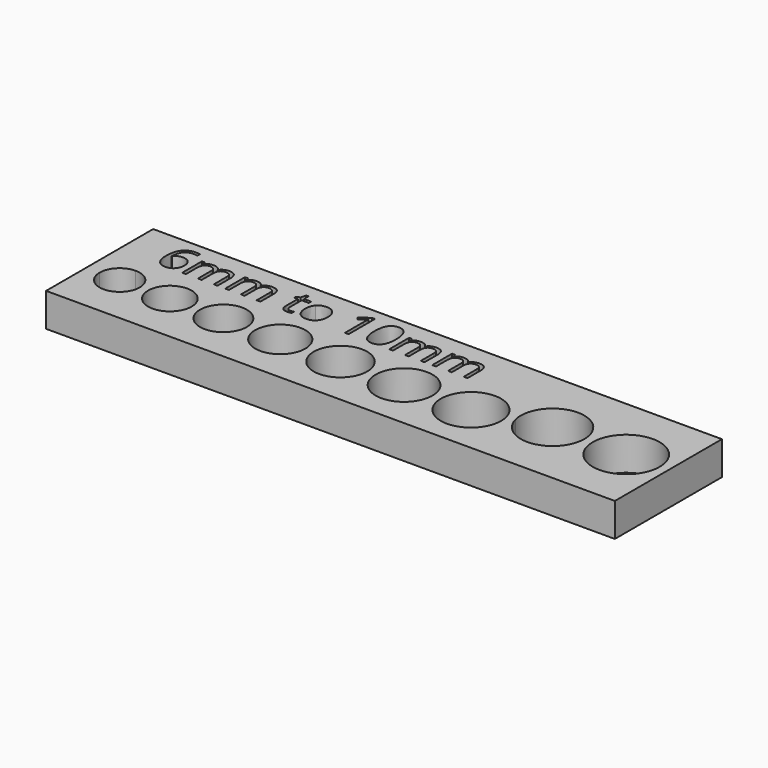
from build123d import *

# Parameters (mm, degrees)
F1_DEPTH = 5


with BuildPart() as f1:
    # F0 (on Top) → F1 (new body)
    with BuildSketch(Plane.XY):
        with BuildLine():
            Line((0, 7.5), (0, 0))
            Line((0, 0), (5, 0))
            Line((5, 0), (5, 4.5))
            ThreePointArc((5, 4.5), (2.8786796564, 5.3786796564), (2, 7.5))
            Line((2, 7.5), (0, 7.5))
        make_face()
        with BuildLine():
            Line((5, 4.5), (5, 0))
            Line((5, 0), (85, 0))
            Line((85, 0), (85, 20))
            Line((85, 20), (0, 20))
            Line((0, 20), (0, 7.5))
            Line((0, 7.5), (2, 7.5))
            ThreePointArc((2, 7.5), (2.8786796564, 9.6213203436), (5, 10.5))
            ThreePointArc((5, 10.5), (7.1213203436, 9.6213203436), (8, 7.5))
            ThreePointArc((8, 7.5), (7.1213203436, 5.3786796564), (5, 4.5))
        make_face()
        with BuildLine():
            ThreePointArc((15.75, 7.5), (12.5, 4.25), (9.25, 7.5))
            ThreePointArc((9.25, 7.5), (12.5, 10.75), (15.75, 7.5))
        make_face(mode=Mode.SUBTRACT)
        with BuildLine():
            ThreePointArc((24, 7.5), (20.5, 4), (17, 7.5))
            ThreePointArc((17, 7.5), (20.5, 11), (24, 7.5))
        make_face(mode=Mode.SUBTRACT)
        with BuildLine():
            ThreePointArc((32.75, 7.5), (29, 3.75), (25.25, 7.5))
            ThreePointArc((25.25, 7.5), (29, 11.25), (32.75, 7.5))
        make_face(mode=Mode.SUBTRACT)
        with BuildLine():
            ThreePointArc((42, 7.5), (38, 3.5), (34, 7.5))
            ThreePointArc((34, 7.5), (38, 11.5), (42, 7.5))
        make_face(mode=Mode.SUBTRACT)
        with BuildLine():
            ThreePointArc((51.75, 7.5), (47.5, 3.25), (43.25, 7.5))
            ThreePointArc((43.25, 7.5), (47.5, 11.75), (51.75, 7.5))
        make_face(mode=Mode.SUBTRACT)
        with BuildLine():
            ThreePointArc((62, 7.5), (57.5, 3), (53, 7.5))
            ThreePointArc((53, 7.5), (56.9603921309, 11.9675298933), (61.8705881545, 8.5714285714))
            ThreePointArc((61.8705881545, 8.5714285714), (61.9675298933, 8.0396078691), (62, 7.5))
        make_face(mode=Mode.SUBTRACT)
        with BuildLine():
            add(Edge.make_bspline(
                [(5.8433741256, 14.0072115662), (5.3949775175, 14.5824110658), (5.3949775175, 15.6076259338)],
                knots=[0, 0, 0, 1, 1, 1], degree=2))
            add(Edge.make_bspline(
                [(5.3949775175, 15.6076259338), (5.3949775175, 17.0612726992), (5.9599248685, 17.7810814538)],
                knots=[0, 0, 0, 1, 1, 1], degree=2))
            add(Edge.make_bspline(
                [(5.9599248685, 17.7810814538), (6.5248722194, 18.5008902084), (7.6310251032, 18.5008902084)],
                knots=[0, 0, 0, 1, 1, 1], degree=2))
            add(Edge.make_bspline(
                [(7.6310251032, 18.5008902084), (8.0119733646, 18.5008902084), (8.2310455943, 18.4372189693)],
                knots=[0, 0, 0, 1, 1, 1], degree=2))
            Line((8.2310455943, 18.4372189693), (8.2310455943, 17.9548283946))
            add(Edge.make_bspline(
                [(8.2310455943, 17.9548283946), (7.9709647699, 18.0390039311), (7.6375001445, 18.0390039311)],
                knots=[0, 0, 0, 1, 1, 1], degree=2))
            add(Edge.make_bspline(
                [(7.6375001445, 18.0390039311), (6.8443075887, 18.0390039311), (6.42612784, 17.5452820342)],
                knots=[0, 0, 0, 1, 1, 1], degree=2))
            add(Edge.make_bspline(
                [(6.42612784, 17.5452820342), (6.0079480912, 17.0515601372), (5.96801867, 15.9918117159)],
                knots=[0, 0, 0, 1, 1, 1], degree=2))
            Line((5.96801867, 15.9918117159), (6.0079480912, 15.9918117159))
            add(Edge.make_bspline(
                [(6.0079480912, 15.9918117159), (6.3791837908, 16.5724070832), (7.1820889084, 16.5724070832)],
                knots=[0, 0, 0, 1, 1, 1], degree=2))
            add(Edge.make_bspline(
                [(7.1820889084, 16.5724070832), (7.8468598122, 16.5724070832), (8.229426834, 16.1709545244)],
                knots=[0, 0, 0, 1, 1, 1], degree=2))
            add(Edge.make_bspline(
                [(8.229426834, 16.1709545244), (8.6119938558, 15.7695019656), (8.6119938558, 15.0820684173)],
                knots=[0, 0, 0, 1, 1, 1], degree=2))
            add(Edge.make_bspline(
                [(8.6119938558, 15.0820684173), (8.6119938558, 14.3126176795), (8.1921953467, 13.8723148731)],
                knots=[0, 0, 0, 1, 1, 1], degree=2))
            add(Edge.make_bspline(
                [(8.1921953467, 13.8723148731), (7.7723968376, 13.4320120667), (7.0569047771, 13.4320120667)],
                knots=[0, 0, 0, 1, 1, 1], degree=2))
            add(Edge.make_bspline(
                [(7.0569047771, 13.4320120667), (6.2917707336, 13.4320120667), (5.8433741256, 14.0072115662)],
                knots=[0, 0, 0, 1, 1, 1], degree=2))
        make_face(mode=Mode.SUBTRACT)
        with BuildLine():
            Line((14.8129250465, 13.5), (14.2539131501, 13.5))
            Line((14.2539131501, 13.5), (14.2539131501, 15.9043986587))
            add(Edge.make_bspline(
                [(14.2539131501, 15.9043986587), (14.2539131501, 16.3468598122), (14.0650577797, 16.5675508022)],
                knots=[0, 0, 0, 1, 1, 1], degree=2))
            add(Edge.make_bspline(
                [(14.0650577797, 16.5675508022), (13.8762024093, 16.7882417922), (13.4779873711, 16.7882417922)],
                knots=[0, 0, 0, 1, 1, 1], degree=2))
            add(Edge.make_bspline(
                [(13.4779873711, 16.7882417922), (12.9556673752, 16.7882417922), (12.7058386995, 16.4882315467)],
                knots=[0, 0, 0, 1, 1, 1], degree=2))
            add(Edge.make_bspline(
                [(12.7058386995, 16.4882315467), (12.4560100238, 16.1882213011), (12.4560100238, 15.564458992)],
                knots=[0, 0, 0, 1, 1, 1], degree=2))
            Line((12.4560100238, 15.564458992), (12.4560100238, 13.5))
            Line((12.4560100238, 13.5), (11.8959189538, 13.5))
            Line((11.8959189538, 13.5), (11.8959189538, 15.9043986587))
            add(Edge.make_bspline(
                [(11.8959189538, 15.9043986587), (11.8959189538, 16.3468598122), (11.7070635834, 16.5675508022)],
                knots=[0, 0, 0, 1, 1, 1], degree=2))
            add(Edge.make_bspline(
                [(11.7070635834, 16.5675508022), (11.518208213, 16.7882417922), (11.1167556542, 16.7882417922)],
                knots=[0, 0, 0, 1, 1, 1], degree=2))
            add(Edge.make_bspline(
                [(11.1167556542, 16.7882417922), (10.5911981377, 16.7882417922), (10.3467653297, 16.473123117)],
                knots=[0, 0, 0, 1, 1, 1], degree=2))
            add(Edge.make_bspline(
                [(10.3467653297, 16.473123117), (10.1023325217, 16.1580044418), (10.1023325217, 15.4392748607)],
                knots=[0, 0, 0, 1, 1, 1], degree=2))
            Line((10.1023325217, 15.4392748607), (10.1023325217, 13.5))
            Line((10.1023325217, 13.5), (9.5422414517, 13.5))
            Line((9.5422414517, 13.5), (9.5422414517, 17.1961693923))
            Line((9.5422414517, 17.1961693923), (9.9976526878, 17.1961693923))
            Line((9.9976526878, 17.1961693923), (10.0883032656, 16.6900369996))
            Line((10.0883032656, 16.6900369996), (10.1152826042, 16.6900369996))
            add(Edge.make_bspline(
                [(10.1152826042, 16.6900369996), (10.2739211154, 16.9598303859), (10.5626000387, 17.1119938558)],
                knots=[0, 0, 0, 1, 1, 1], degree=2))
            add(Edge.make_bspline(
                [(10.5626000387, 17.1119938558), (10.8512789621, 17.2641573257), (11.2084854055, 17.2641573257)],
                knots=[0, 0, 0, 1, 1, 1], degree=2))
            add(Edge.make_bspline(
                [(11.2084854055, 17.2641573257), (12.0750617623, 17.2641573257), (12.341617628, 16.6360783223)],
                knots=[0, 0, 0, 1, 1, 1], degree=2))
            Line((12.341617628, 16.6360783223), (12.3685969666, 16.6360783223))
            add(Edge.make_bspline(
                [(12.3685969666, 16.6360783223), (12.533710519, 16.926376006), (12.8472104339, 17.0952666658)],
                knots=[0, 0, 0, 1, 1, 1], degree=2))
            add(Edge.make_bspline(
                [(12.8472104339, 17.0952666658), (13.1607103488, 17.2641573257), (13.5621629076, 17.2641573257)],
                knots=[0, 0, 0, 1, 1, 1], degree=2))
            add(Edge.make_bspline(
                [(13.5621629076, 17.2641573257), (14.1891627374, 17.2641573257), (14.5010438919, 16.9420240224)],
                knots=[0, 0, 0, 1, 1, 1], degree=2))
            add(Edge.make_bspline(
                [(14.5010438919, 16.9420240224), (14.8129250465, 16.6198907192), (14.8129250465, 15.9108737)],
                knots=[0, 0, 0, 1, 1, 1], degree=2))
            Line((14.8129250465, 15.9108737), (14.8129250465, 13.5))
        make_face(mode=Mode.SUBTRACT)
        with BuildLine():
            Line((21.237245161, 13.5), (20.6782332646, 13.5))
            Line((20.6782332646, 13.5), (20.6782332646, 15.9043986587))
            add(Edge.make_bspline(
                [(20.6782332646, 15.9043986587), (20.6782332646, 16.3468598122), (20.4893778942, 16.5675508022)],
                knots=[0, 0, 0, 1, 1, 1], degree=2))
            add(Edge.make_bspline(
                [(20.4893778942, 16.5675508022), (20.3005225238, 16.7882417922), (19.9023074856, 16.7882417922)],
                knots=[0, 0, 0, 1, 1, 1], degree=2))
            add(Edge.make_bspline(
                [(19.9023074856, 16.7882417922), (19.3799874898, 16.7882417922), (19.130158814, 16.4882315467)],
                knots=[0, 0, 0, 1, 1, 1], degree=2))
            add(Edge.make_bspline(
                [(19.130158814, 16.4882315467), (18.8803301383, 16.1882213011), (18.8803301383, 15.564458992)],
                knots=[0, 0, 0, 1, 1, 1], degree=2))
            Line((18.8803301383, 15.564458992), (18.8803301383, 13.5))
            Line((18.8803301383, 13.5), (18.3202390684, 13.5))
            Line((18.3202390684, 13.5), (18.3202390684, 15.9043986587))
            add(Edge.make_bspline(
                [(18.3202390684, 15.9043986587), (18.3202390684, 16.3468598122), (18.131383698, 16.5675508022)],
                knots=[0, 0, 0, 1, 1, 1], degree=2))
            add(Edge.make_bspline(
                [(18.131383698, 16.5675508022), (17.9425283276, 16.7882417922), (17.5410757687, 16.7882417922)],
                knots=[0, 0, 0, 1, 1, 1], degree=2))
            add(Edge.make_bspline(
                [(17.5410757687, 16.7882417922), (17.0155182522, 16.7882417922), (16.7710854442, 16.473123117)],
                knots=[0, 0, 0, 1, 1, 1], degree=2))
            add(Edge.make_bspline(
                [(16.7710854442, 16.473123117), (16.5266526363, 16.1580044418), (16.5266526363, 15.4392748607)],
                knots=[0, 0, 0, 1, 1, 1], degree=2))
            Line((16.5266526363, 15.4392748607), (16.5266526363, 13.5))
            Line((16.5266526363, 13.5), (15.9665615663, 13.5))
            Line((15.9665615663, 13.5), (15.9665615663, 17.1961693923))
            Line((15.9665615663, 17.1961693923), (16.4219728024, 17.1961693923))
            Line((16.4219728024, 17.1961693923), (16.5126233802, 16.6900369996))
            Line((16.5126233802, 16.6900369996), (16.5396027188, 16.6900369996))
            add(Edge.make_bspline(
                [(16.5396027188, 16.6900369996), (16.6982412299, 16.9598303859), (16.9869201533, 17.1119938558)],
                knots=[0, 0, 0, 1, 1, 1], degree=2))
            add(Edge.make_bspline(
                [(16.9869201533, 17.1119938558), (17.2755990766, 17.2641573257), (17.6328055201, 17.2641573257)],
                knots=[0, 0, 0, 1, 1, 1], degree=2))
            add(Edge.make_bspline(
                [(17.6328055201, 17.2641573257), (18.4993818769, 17.2641573257), (18.7659377425, 16.6360783223)],
                knots=[0, 0, 0, 1, 1, 1], degree=2))
            Line((18.7659377425, 16.6360783223), (18.7929170812, 16.6360783223))
            add(Edge.make_bspline(
                [(18.7929170812, 16.6360783223), (18.9580306336, 16.926376006), (19.2715305485, 17.0952666658)],
                knots=[0, 0, 0, 1, 1, 1], degree=2))
            add(Edge.make_bspline(
                [(19.2715305485, 17.0952666658), (19.5850304633, 17.2641573257), (19.9864830222, 17.2641573257)],
                knots=[0, 0, 0, 1, 1, 1], degree=2))
            add(Edge.make_bspline(
                [(19.9864830222, 17.2641573257), (20.6134828519, 17.2641573257), (20.9253640065, 16.9420240224)],
                knots=[0, 0, 0, 1, 1, 1], degree=2))
            add(Edge.make_bspline(
                [(20.9253640065, 16.9420240224), (21.237245161, 16.6198907192), (21.237245161, 15.9108737)],
                knots=[0, 0, 0, 1, 1, 1], degree=2))
            Line((21.237245161, 15.9108737), (21.237245161, 13.5))
        make_face(mode=Mode.SUBTRACT)
        with BuildLine():
            add(Edge.make_bspline(
                [(24.9442062888, 14.0735807393), (25.1028447999, 13.8949775175), (25.3791132275, 13.8949775175)],
                knots=[0, 0, 0, 1, 1, 1], degree=2))
            add(Edge.make_bspline(
                [(25.3791132275, 13.8949775175), (25.5280391768, 13.8949775175), (25.6661733905, 13.9165609884)],
                knots=[0, 0, 0, 1, 1, 1], degree=2))
            add(Edge.make_bspline(
                [(25.6661733905, 13.9165609884), (25.8043076043, 13.9381444594), (25.8852456202, 13.9618862773)],
                knots=[0, 0, 0, 1, 1, 1], degree=2))
            Line((25.8852456202, 13.9618862773), (25.8852456202, 13.5334543799))
            add(Edge.make_bspline(
                [(25.8852456202, 13.5334543799), (25.7945950424, 13.4902874381), (25.617610581, 13.4611497524)],
                knots=[0, 0, 0, 1, 1, 1], degree=2))
            add(Edge.make_bspline(
                [(25.617610581, 13.4611497524), (25.4406261196, 13.4320120667), (25.2981752116, 13.4320120667)],
                knots=[0, 0, 0, 1, 1, 1], degree=2))
            add(Edge.make_bspline(
                [(25.2981752116, 13.4320120667), (24.2265558812, 13.4320120667), (24.2265558812, 14.5619067685)],
                knots=[0, 0, 0, 1, 1, 1], degree=2))
            Line((24.2265558812, 14.5619067685), (24.2265558812, 16.7612624536))
            Line((24.2265558812, 16.7612624536), (23.6966816706, 16.7612624536))
            Line((23.6966816706, 16.7612624536), (23.6966816706, 17.0310558399))
            Line((23.6966816706, 17.0310558399), (24.2265558812, 17.2641573257))
            Line((24.2265558812, 17.2641573257), (24.4618157141, 18.0530331872))
            Line((24.4618157141, 18.0530331872), (24.7855677777, 18.0530331872))
            Line((24.7855677777, 18.0530331872), (24.7855677777, 17.1961693923))
            Line((24.7855677777, 17.1961693923), (25.8582662816, 17.1961693923))
            Line((25.8582662816, 17.1961693923), (25.8582662816, 16.7612624536))
            Line((25.8582662816, 16.7612624536), (24.7855677777, 16.7612624536))
            Line((24.7855677777, 16.7612624536), (24.7855677777, 14.5856485865))
            add(Edge.make_bspline(
                [(24.7855677777, 14.5856485865), (24.7855677777, 14.252183961), (24.9442062888, 14.0735807393)],
                knots=[0, 0, 0, 1, 1, 1], degree=2))
        make_face(mode=Mode.SUBTRACT)
        with BuildLine():
            add(Edge.make_bspline(
                [(29.3564073283, 16.7477727843), (29.8134373247, 16.2313882429), (29.8134373247, 15.3518618036)],
                knots=[0, 0, 0, 1, 1, 1], degree=2))
            add(Edge.make_bspline(
                [(29.8134373247, 15.3518618036), (29.8134373247, 14.4475143727), (29.3585656754, 13.9397632197)],
                knots=[0, 0, 0, 1, 1, 1], degree=2))
            add(Edge.make_bspline(
                [(29.3585656754, 13.9397632197), (28.9036940261, 13.4320120667), (28.1007889085, 13.4320120667)],
                knots=[0, 0, 0, 1, 1, 1], degree=2))
            add(Edge.make_bspline(
                [(28.1007889085, 13.4320120667), (27.6043690777, 13.4320120667), (27.2201832956, 13.6651135524)],
                knots=[0, 0, 0, 1, 1, 1], degree=2))
            add(Edge.make_bspline(
                [(27.2201832956, 13.6651135524), (26.8359975135, 13.8982150382), (26.6266378458, 14.3331219769)],
                knots=[0, 0, 0, 1, 1, 1], degree=2))
            add(Edge.make_bspline(
                [(26.6266378458, 14.3331219769), (26.417278178, 14.7680289156), (26.417278178, 15.3518618036)],
                knots=[0, 0, 0, 1, 1, 1], degree=2))
            add(Edge.make_bspline(
                [(26.417278178, 15.3518618036), (26.417278178, 16.2551300609), (26.8694518934, 16.7596436933)],
                knots=[0, 0, 0, 1, 1, 1], degree=2))
            add(Edge.make_bspline(
                [(26.8694518934, 16.7596436933), (27.3216256089, 17.2641573257), (28.1245307265, 17.2641573257)],
                knots=[0, 0, 0, 1, 1, 1], degree=2))
            add(Edge.make_bspline(
                [(28.1245307265, 17.2641573257), (28.899377332, 17.2641573257), (29.3564073283, 16.7477727843)],
                knots=[0, 0, 0, 1, 1, 1], degree=2))
        make_face(mode=Mode.SUBTRACT)
        with BuildLine():
            Line((34.4074791066, 18.430743928), (34.4074791066, 13.5))
            Line((34.4074791066, 13.5), (33.8614172928, 13.5))
            Line((33.8614172928, 13.5), (33.8614172928, 17.0137890632))
            add(Edge.make_bspline(
                [(33.8614172928, 17.0137890632), (33.8614172928, 17.4530126961), (33.8883966314, 17.8436735194)],
                knots=[0, 0, 0, 1, 1, 1], degree=2))
            add(Edge.make_bspline(
                [(33.8883966314, 17.8436735194), (33.818250351, 17.7724480654), (33.730297707, 17.695287157)],
                knots=[0, 0, 0, 1, 1, 1], degree=2))
            add(Edge.make_bspline(
                [(33.730297707, 17.695287157), (33.6423450631, 17.6181262485), (32.9279321762, 17.0375308812)],
                knots=[0, 0, 0, 1, 1, 1], degree=2))
            Line((32.9279321762, 17.0375308812), (32.6311594512, 17.4217166632))
            Line((32.6311594512, 17.4217166632), (33.9358802674, 18.430743928))
            Line((33.9358802674, 18.430743928), (34.4074791066, 18.430743928))
        make_face(mode=Mode.SUBTRACT)
        with BuildLine():
            add(Edge.make_bspline(
                [(39.1342592346, 17.8571631887), (39.5508202231, 17.2058819542), (39.5508202231, 15.972386592)],
                knots=[0, 0, 0, 1, 1, 1], degree=2))
            add(Edge.make_bspline(
                [(39.5508202231, 15.972386592), (39.5508202231, 14.693565941), (39.1477489039, 14.0627890038)],
                knots=[0, 0, 0, 1, 1, 1], degree=2))
            add(Edge.make_bspline(
                [(39.1477489039, 14.0627890038), (38.7446775848, 13.4320120667), (37.9147931285, 13.4320120667)],
                knots=[0, 0, 0, 1, 1, 1], degree=2))
            add(Edge.make_bspline(
                [(37.9147931285, 13.4320120667), (37.1194422257, 13.4320120667), (36.7044999976, 14.0778974335)],
                knots=[0, 0, 0, 1, 1, 1], degree=2))
            add(Edge.make_bspline(
                [(36.7044999976, 14.0778974335), (36.2895577695, 14.7237828003), (36.2895577695, 15.972386592)],
                knots=[0, 0, 0, 1, 1, 1], degree=2))
            add(Edge.make_bspline(
                [(36.2895577695, 15.972386592), (36.2895577695, 17.2598406315), (36.6910103283, 17.8841425274)],
                knots=[0, 0, 0, 1, 1, 1], degree=2))
            add(Edge.make_bspline(
                [(36.6910103283, 17.8841425274), (37.0924628871, 18.5084444233), (37.9147931285, 18.5084444233)],
                knots=[0, 0, 0, 1, 1, 1], degree=2))
            add(Edge.make_bspline(
                [(37.9147931285, 18.5084444233), (38.7176982462, 18.5084444233), (39.1342592346, 17.8571631887)],
                knots=[0, 0, 0, 1, 1, 1], degree=2))
        make_face(mode=Mode.SUBTRACT)
        with BuildLine():
            ThreePointArc((72.4480390272, 10), (68.2676251112, 5.2842740015), (63.0846404196, 8.869047619))
            ThreePointArc((63.0846404196, 8.869047619), (67.1284529432, 14.7157259985), (72.4480390272, 10))
        make_face(mode=Mode.SUBTRACT)
        with BuildLine():
            ThreePointArc((83.6980390272, 10), (78.6980390272, 5), (73.6980390272, 10))
            ThreePointArc((73.6980390272, 10), (78.6980390272, 15), (83.6980390272, 10))
        make_face(mode=Mode.SUBTRACT)
        with BuildLine():
            Line((45.758226455, 13.5), (45.1992145586, 13.5))
            Line((45.1992145586, 13.5), (45.1992145586, 15.9043986587))
            add(Edge.make_bspline(
                [(45.1992145586, 15.9043986587), (45.1992145586, 16.3468598122), (45.0103591882, 16.5675508022)],
                knots=[0, 0, 0, 1, 1, 1], degree=2))
            add(Edge.make_bspline(
                [(45.0103591882, 16.5675508022), (44.8215038178, 16.7882417922), (44.4232887796, 16.7882417922)],
                knots=[0, 0, 0, 1, 1, 1], degree=2))
            add(Edge.make_bspline(
                [(44.4232887796, 16.7882417922), (43.9009687837, 16.7882417922), (43.651140108, 16.4882315467)],
                knots=[0, 0, 0, 1, 1, 1], degree=2))
            add(Edge.make_bspline(
                [(43.651140108, 16.4882315467), (43.4013114323, 16.1882213011), (43.4013114323, 15.564458992)],
                knots=[0, 0, 0, 1, 1, 1], degree=2))
            Line((43.4013114323, 15.564458992), (43.4013114323, 13.5))
            Line((43.4013114323, 13.5), (42.8412203624, 13.5))
            Line((42.8412203624, 13.5), (42.8412203624, 15.9043986587))
            add(Edge.make_bspline(
                [(42.8412203624, 15.9043986587), (42.8412203624, 16.3468598122), (42.652364992, 16.5675508022)],
                knots=[0, 0, 0, 1, 1, 1], degree=2))
            add(Edge.make_bspline(
                [(42.652364992, 16.5675508022), (42.4635096215, 16.7882417922), (42.0620570627, 16.7882417922)],
                knots=[0, 0, 0, 1, 1, 1], degree=2))
            add(Edge.make_bspline(
                [(42.0620570627, 16.7882417922), (41.5364995462, 16.7882417922), (41.2920667382, 16.473123117)],
                knots=[0, 0, 0, 1, 1, 1], degree=2))
            add(Edge.make_bspline(
                [(41.2920667382, 16.473123117), (41.0476339302, 16.1580044418), (41.0476339302, 15.4392748607)],
                knots=[0, 0, 0, 1, 1, 1], degree=2))
            Line((41.0476339302, 15.4392748607), (41.0476339302, 13.5))
            Line((41.0476339302, 13.5), (40.4875428603, 13.5))
            Line((40.4875428603, 13.5), (40.4875428603, 17.1961693923))
            Line((40.4875428603, 17.1961693923), (40.9429540964, 17.1961693923))
            Line((40.9429540964, 17.1961693923), (41.0336046742, 16.6900369996))
            Line((41.0336046742, 16.6900369996), (41.0605840128, 16.6900369996))
            add(Edge.make_bspline(
                [(41.0605840128, 16.6900369996), (41.2192225239, 16.9598303859), (41.5079014473, 17.1119938558)],
                knots=[0, 0, 0, 1, 1, 1], degree=2))
            add(Edge.make_bspline(
                [(41.5079014473, 17.1119938558), (41.7965803706, 17.2641573257), (42.1537868141, 17.2641573257)],
                knots=[0, 0, 0, 1, 1, 1], degree=2))
            add(Edge.make_bspline(
                [(42.1537868141, 17.2641573257), (43.0203631709, 17.2641573257), (43.2869190365, 16.6360783223)],
                knots=[0, 0, 0, 1, 1, 1], degree=2))
            Line((43.2869190365, 16.6360783223), (43.3138983752, 16.6360783223))
            add(Edge.make_bspline(
                [(43.3138983752, 16.6360783223), (43.4790119276, 16.926376006), (43.7925118425, 17.0952666658)],
                knots=[0, 0, 0, 1, 1, 1], degree=2))
            add(Edge.make_bspline(
                [(43.7925118425, 17.0952666658), (44.1060117573, 17.2641573257), (44.5074643161, 17.2641573257)],
                knots=[0, 0, 0, 1, 1, 1], degree=2))
            add(Edge.make_bspline(
                [(44.5074643161, 17.2641573257), (45.1344641459, 17.2641573257), (45.4463453005, 16.9420240224)],
                knots=[0, 0, 0, 1, 1, 1], degree=2))
            add(Edge.make_bspline(
                [(45.4463453005, 16.9420240224), (45.758226455, 16.6198907192), (45.758226455, 15.9108737)],
                knots=[0, 0, 0, 1, 1, 1], degree=2))
            Line((45.758226455, 15.9108737), (45.758226455, 13.5))
        make_face(mode=Mode.SUBTRACT)
        with BuildLine():
            Line((52.1825465696, 13.5), (51.6235346732, 13.5))
            Line((51.6235346732, 13.5), (51.6235346732, 15.9043986587))
            add(Edge.make_bspline(
                [(51.6235346732, 15.9043986587), (51.6235346732, 16.3468598122), (51.4346793028, 16.5675508022)],
                knots=[0, 0, 0, 1, 1, 1], degree=2))
            add(Edge.make_bspline(
                [(51.4346793028, 16.5675508022), (51.2458239324, 16.7882417922), (50.8476088942, 16.7882417922)],
                knots=[0, 0, 0, 1, 1, 1], degree=2))
            add(Edge.make_bspline(
                [(50.8476088942, 16.7882417922), (50.3252888983, 16.7882417922), (50.0754602226, 16.4882315467)],
                knots=[0, 0, 0, 1, 1, 1], degree=2))
            add(Edge.make_bspline(
                [(50.0754602226, 16.4882315467), (49.8256315469, 16.1882213011), (49.8256315469, 15.564458992)],
                knots=[0, 0, 0, 1, 1, 1], degree=2))
            Line((49.8256315469, 15.564458992), (49.8256315469, 13.5))
            Line((49.8256315469, 13.5), (49.2655404769, 13.5))
            Line((49.2655404769, 13.5), (49.2655404769, 15.9043986587))
            add(Edge.make_bspline(
                [(49.2655404769, 15.9043986587), (49.2655404769, 16.3468598122), (49.0766851065, 16.5675508022)],
                knots=[0, 0, 0, 1, 1, 1], degree=2))
            add(Edge.make_bspline(
                [(49.0766851065, 16.5675508022), (48.8878297361, 16.7882417922), (48.4863771773, 16.7882417922)],
                knots=[0, 0, 0, 1, 1, 1], degree=2))
            add(Edge.make_bspline(
                [(48.4863771773, 16.7882417922), (47.9608196608, 16.7882417922), (47.7163868528, 16.473123117)],
                knots=[0, 0, 0, 1, 1, 1], degree=2))
            add(Edge.make_bspline(
                [(47.7163868528, 16.473123117), (47.4719540448, 16.1580044418), (47.4719540448, 15.4392748607)],
                knots=[0, 0, 0, 1, 1, 1], degree=2))
            Line((47.4719540448, 15.4392748607), (47.4719540448, 13.5))
            Line((47.4719540448, 13.5), (46.9118629749, 13.5))
            Line((46.9118629749, 13.5), (46.9118629749, 17.1961693923))
            Line((46.9118629749, 17.1961693923), (47.3672742109, 17.1961693923))
            Line((47.3672742109, 17.1961693923), (47.4579247887, 16.6900369996))
            Line((47.4579247887, 16.6900369996), (47.4849041274, 16.6900369996))
            add(Edge.make_bspline(
                [(47.4849041274, 16.6900369996), (47.6435426385, 16.9598303859), (47.9322215618, 17.1119938558)],
                knots=[0, 0, 0, 1, 1, 1], degree=2))
            add(Edge.make_bspline(
                [(47.9322215618, 17.1119938558), (48.2209004852, 17.2641573257), (48.5781069286, 17.2641573257)],
                knots=[0, 0, 0, 1, 1, 1], degree=2))
            add(Edge.make_bspline(
                [(48.5781069286, 17.2641573257), (49.4446832854, 17.2641573257), (49.7112391511, 16.6360783223)],
                knots=[0, 0, 0, 1, 1, 1], degree=2))
            Line((49.7112391511, 16.6360783223), (49.7382184897, 16.6360783223))
            add(Edge.make_bspline(
                [(49.7382184897, 16.6360783223), (49.9033320421, 16.926376006), (50.216831957, 17.0952666658)],
                knots=[0, 0, 0, 1, 1, 1], degree=2))
            add(Edge.make_bspline(
                [(50.216831957, 17.0952666658), (50.5303318719, 17.2641573257), (50.9317844307, 17.2641573257)],
                knots=[0, 0, 0, 1, 1, 1], degree=2))
            add(Edge.make_bspline(
                [(50.9317844307, 17.2641573257), (51.5587842605, 17.2641573257), (51.870665415, 16.9420240224)],
                knots=[0, 0, 0, 1, 1, 1], degree=2))
            add(Edge.make_bspline(
                [(51.870665415, 16.9420240224), (52.1825465696, 16.6198907192), (52.1825465696, 15.9108737)],
                knots=[0, 0, 0, 1, 1, 1], degree=2))
            Line((52.1825465696, 15.9108737), (52.1825465696, 13.5))
        make_face(mode=Mode.SUBTRACT)
    extrude(amount=F1_DEPTH)


solid = f1.part
